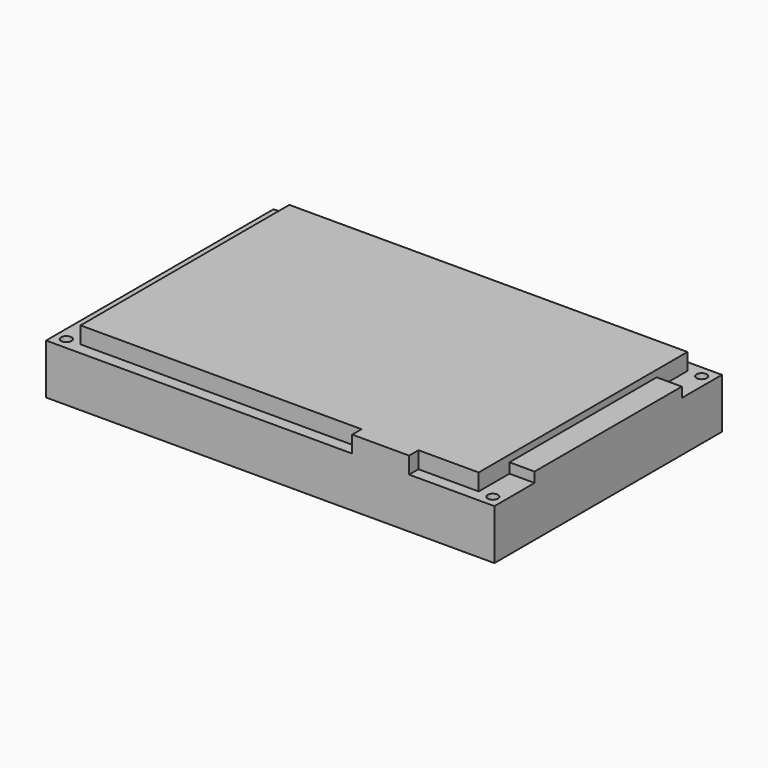
from build123d import *

# Parameters (mm, degrees)
F0_R     = 1.55
F1_DEPTH = 15
F2_W     = 17
F2_H     = 3.5
F3_DEPTH = 5
F4_W     = 7.5
F4_H     = 55
F5_DEPTH = 3


with BuildPart() as f1:
    # F0 (on Top) → F1 (new body)
    with BuildSketch(Plane.XY):
        with Locations((-3.25, 3.5)):
            Circle(F0_R)
        with BuildLine():
            ThreePointArc((-129.2, 81.5), (-130.75, 83.05), (-132.3, 81.5))
            ThreePointArc((-132.3, 81.5), (-130.75, 79.95), (-129.2, 81.5))
        make_face()
        with BuildLine():
            ThreePointArc((-129.2, 3.5), (-130.75, 5.05), (-132.3, 3.5))
            ThreePointArc((-132.3, 3.5), (-130.75, 1.95), (-129.2, 3.5))
        make_face()
        Polygon((-134, 0), (0, 0), (0, 3.5), (0, 81.5), (0, 85), (-134, 85), (-134, 81.5), (-134, 3.5), align=None)
        with BuildLine():
            ThreePointArc((-129.2, 3.5), (-130.75, 1.95), (-132.3, 3.5))
            ThreePointArc((-132.3, 3.5), (-130.75, 5.05), (-129.2, 3.5))
        make_face(mode=Mode.SUBTRACT)
        with Locations((-3.25, 3.5)):
            Circle(F0_R, mode=Mode.SUBTRACT)
        with BuildLine():
            ThreePointArc((-129.2, 81.5), (-130.75, 79.95), (-132.3, 81.5))
            ThreePointArc((-132.3, 81.5), (-130.75, 83.05), (-129.2, 81.5))
        make_face(mode=Mode.SUBTRACT)
        with BuildLine():
            ThreePointArc((-4.8, 81.5), (-3.25, 83.05), (-1.7, 81.5))
            ThreePointArc((-1.7, 81.5), (-3.25, 79.95), (-4.8, 81.5))
        make_face(mode=Mode.SUBTRACT)
    extrude(amount=F1_DEPTH)

    # F2 (on face) → F3 (join)
    with BuildSketch(Plane.XY.offset(15)):
        Polygon((-7.5, 3.5), (-7.5, 81.5), (-126.5, 81.5), (-126.5, 3.5), (-42.5, 3.5), (-25.5, 3.5), align=None)
        with Locations((-34, 1.75)):
            Rectangle(F2_W, F2_H)
    extrude(amount=F3_DEPTH)

    # F4 (on face) → F5 (join)
    with BuildSketch(Plane.XY.offset(15)):
        with Locations((-3.75, 42.5)):
            Rectangle(F4_W, F4_H)
    extrude(amount=F5_DEPTH)


solid = f1.part
